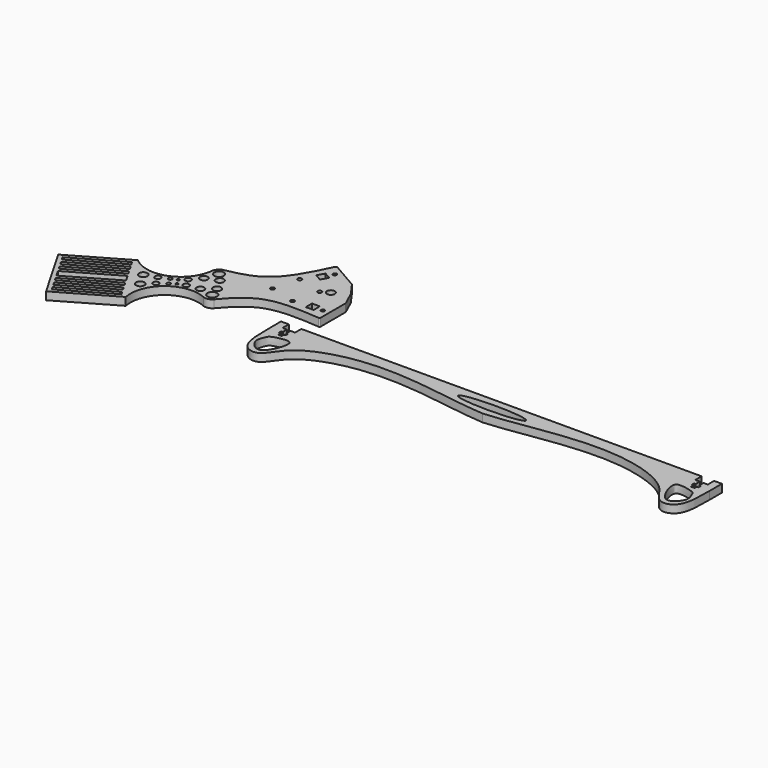
from build123d import *

# Parameters (mm, degrees)
F1_DEPTH = 6.35
F0_R     = 3.4021827074
F0_R_2   = 2.3423715425
F0_R_3   = 1.5214975609
F0_R_4   = 1.0136747058
F0_R_5   = 2.3953863404
F0_R_6   = 3.0786855976
F0_R_7   = 3.8649972017
F0_R_8   = 3.2475246744
F0_R_9   = 1.651
F0_R_10  = 1.4605
F0_R_11  = 3.175
F2_DEPTH = 6.35


with BuildPart() as f1:
    # F0 (on Top) → F1 (new body)
    with BuildSketch(Plane.XY):
        with BuildLine():
            Line((-138.4495145308, -134.0657515029), (-144.7573414492, -134.0763693376))
            Line((-144.7573414492, -134.0763693376), (-144.7047894672, -146.6308059072))
            add(Edge.make_bspline(
                [(-144.7047894672, -146.6308059072), (-144.7133234272, -157.3391666431), (-144.7274245924, -175.033222186), (-126.4599913967, -179.9298873826), (-117.9106783361, -155.3956384096), (-59.8013257889, -138.1998063164), (8.0821956242, -150.743197909), (26.3685484192, -152.2679152242), (33.0744734994, -152.8270557045)],
                knots=[0, 0, 0, 0, 0.1534714895, 0.2535899869, 0.3857332753, 0.6100992658, 0.8570165882, 1, 1, 1, 1], degree=3))
            add(Edge.make_bspline(
                [(210.8318690394, -146.0323383923), (210.8764531739, -156.7406097157), (210.9501221669, -174.4345175169), (192.699277354, -179.3926531767), (184.0674169857, -154.8873249181), (125.900503121, -137.8872182628), (58.0595943375, -150.6590719859), (39.7784782043, -152.2453425663), (33.0744734994, -152.8270557045)],
                knots=[0, 0, 0, 0, 0.1534714895, 0.2535899869, 0.3857332753, 0.6100992658, 0.8570165882, 1, 1, 1, 1], degree=3))
            Line((210.8318690394, -146.0323383923), (210.8421555957, -133.477796048))
            Line((210.8421555957, -133.477796048), (204.5343286773, -133.4884138828))
            Line((204.5343286773, -133.4884138828), (204.5557062918, -139.8383868946))
            Line((204.5557062918, -139.8383868946), (200.9958583282, -139.8463149217))
            Line((200.9958583282, -139.8463149217), (201.021371596, -143.9988273264))
            Line((201.021371596, -143.9988273264), (202.2913476258, -143.9910245228))
            Line((202.2913476258, -143.9910245228), (202.3069532329, -146.5309765824))
            Line((202.3069532329, -146.5309765824), (201.0369772031, -146.538779386))
            Line((201.0369772031, -146.538779386), (201.0506321094, -148.7612374381))
            Line((201.0506321094, -148.7612374381), (198.1296872409, -148.7791838863))
            Line((198.1296872409, -148.7791838863), (198.1160323346, -146.5567258342))
            Line((198.1160323346, -146.5567258342), (196.8460563048, -146.5645286377))
            Line((196.8460563048, -146.5645286377), (196.8304506977, -144.0245765782))
            Line((196.8304506977, -144.0245765782), (198.1004267275, -144.0167737746))
            Line((198.1004267275, -144.0167737746), (198.0749134597, -139.8642613699))
            Line((198.0749134597, -139.8642613699), (194.4241348384, -139.8554411596))
            Line((194.4241348384, -139.8554411596), (194.4134460296, -133.5054501555))
            Line((194.4134460296, -133.5054501555), (33.0424070732, -133.7770826928))
            Line((33.0424070732, -133.7770826928), (-128.3286318832, -134.0487152301))
            Line((-128.3286318832, -134.0487152301), (-128.3179430744, -140.3987062342))
            Line((-128.3179430744, -140.3987062342), (-131.9686713137, -140.4198169202))
            Line((-131.9686713137, -140.4198169202), (-131.9802047998, -144.5723916849))
            Line((-131.9802047998, -144.5723916849), (-130.7102096982, -144.5759190075))
            Line((-130.7102096982, -144.5759190075), (-130.7172643434, -147.1159092107))
            Line((-130.7172643434, -147.1159092107), (-131.987259445, -147.112381888))
            Line((-131.987259445, -147.112381888), (-131.9934322596, -149.3348733158))
            Line((-131.9934322596, -149.3348733158), (-134.9144209932, -149.3267604738))
            Line((-134.9144209932, -149.3267604738), (-134.9082481786, -147.104269046))
            Line((-134.9082481786, -147.104269046), (-136.1782432802, -147.1007417234))
            Line((-136.1782432802, -147.1007417234), (-136.1711886349, -144.5607515203))
            Line((-136.1711886349, -144.5607515203), (-134.9011935334, -144.5642788429))
            Line((-134.9011935334, -144.5642788429), (-134.8896600473, -140.4117040782))
            Line((-134.8896600473, -140.4117040782), (-138.4495145279, -140.4157604992))
            Line((-138.4495145279, -140.4157604992), (-138.4495145308, -134.0657515029))
        make_face()
        with BuildLine():
            add(Edge.make_bspline(
                [(-138.9987766743, -157.2226136923), (-138.5653700599, -156.1642919735), (-137.8798136028, -154.1458023049), (-127.6774338097, -151.6177237836), (-118.594617043, -152.3335293344), (-127.9116007274, -176.2526518644), (-137.9064111948, -170.7282479651), (-141.8547963631, -163.6501985609), (-139.6357667278, -158.7780592854), (-138.9987766743, -157.2226136923)],
                knots=[0, 0, 0, 0, 0.0864656622, 0.2474595831, 0.3699991031, 0.5914450749, 0.732896097, 0.8729189519, 1, 1, 1, 1], degree=3))
        make_face(mode=Mode.SUBTRACT)
        with BuildLine():
            add(Edge.make_bspline(
                [(205.1615464231, -156.6432957279), (204.7245793727, -155.5864390912), (204.0322314558, -153.5702688205), (193.8213985774, -151.0765514385), (184.7410430761, -151.8229306821), (194.1384988644, -175.7105515826), (204.1146545156, -170.1525309685), (208.0391887077, -163.0612292417), (205.803769351, -158.1965880483), (205.1615464231, -156.6432957279)],
                knots=[0, 0, 0, 0, 0.0864656622, 0.2474595831, 0.3699991031, 0.5914450749, 0.732896097, 0.8729189519, 1, 1, 1, 1], degree=3))
        make_face(mode=Mode.SUBTRACT)
        with BuildLine():
            add(Edge.make_bspline(
                [(33.0584402863, -147.0766216516), (80.5262285816, -147.0766216516), (56.792334434, -141.4147929721), (33.0584402863, -135.7529642926), (9.3245461387, -141.4147929721), (-14.4093480089, -147.0766216516), (33.0584402863, -147.0766216516)],
                knots=[4.7123889804, 4.7123889804, 4.7123889804, 6.8067840828, 6.8067840828, 8.9011791852, 8.9011791852, 10.9955742876, 10.9955742876, 10.9955742876], degree=2, weights=[1, 0.5, 1, 0.5, 1, 0.5, 1]))
        make_face(mode=Mode.SUBTRACT)
    extrude(amount=F1_DEPTH)


with BuildPart() as f2:
    # F0 (on Top) → F2 (new body)
    with BuildSketch(Plane.XY):
        with BuildLine():
            Line((-267.5036126241, -125.117851582), (-311.4977031363, -150.517851582))
            Line((-311.4977031363, -150.517851582), (-298.7977031363, -172.5148968381))
            Line((-298.7977031363, -172.5148968381), (-286.0977031364, -194.5119420942))
            Line((-286.0977031364, -194.5119420942), (-242.1036126241, -169.1119420943))
            ThreePointArc((-242.1036126241, -169.1119420942), (-232.2862131157, -142.224723721), (-203.9046190165, -138.5113746479))
            ThreePointArc((-203.9046190165, -138.5113746479), (-199.9258695485, -138.890725163), (-196.508603138, -136.8178902872))
            add(Edge.make_bspline(
                [(-196.508603138, -136.8178902872), (-189.891545304, -129.0474837618), (-173.8337589078, -112.2716593016), (-145.581214835, -114.1694170471), (-129.4876984968, -115.3548674058)],
                knots=[0.0669113918, 0.0669113918, 0.0669113918, 0.0669113918, 0.4668257583, 0.9906420355, 0.9906420355, 0.9906420355, 0.9906420355], degree=3))
            ThreePointArc((-129.4876984968, -115.3548674058), (-128.8063401905, -115.1601336713), (-128.4129061342, -114.5707441463))
            Line((-128.4129060967, -114.5707442098), (-128.404174042, -89.1707457108))
            Line((-128.404174042, -89.1707457108), (-133.8041937755, -77.255849794))
            Line((-133.8041937755, -77.255849794), (-141.4227864561, -66.6218475655))
            Line((-141.4227864561, -66.6218475655), (-163.4241964397, -53.9294104972))
            ThreePointArc((-163.4241964397, -53.9294104972), (-164.1313397385, -53.975439652), (-164.6406632246, -54.4681463746))
            add(Edge.make_bspline(
                [(-216.7386386251, -101.7784409847), (-206.7007402593, -99.9331040649), (-184.1435568955, -94.4145653439), (-171.6607912755, -68.9982655549), (-164.6406632246, -54.4681463746)],
                knots=[0.0669113918, 0.0669113918, 0.0669113918, 0.0669113918, 0.4668257583, 0.990642036, 0.990642036, 0.990642036, 0.990642036], degree=3))
            ThreePointArc((-216.7386386251, -101.7784409847), (-220.2423994906, -103.7014630697), (-221.9032470415, -107.3368364419))
            ThreePointArc((-221.9032470415, -107.3368364419), (-239.3098987216, -130.0593433952), (-267.5036126241, -125.117851582))
        make_face()
        Polygon((-248.0282432812, -165.2001807802), (-246.4407432812, -167.9498114373), (-284.9355724794, -190.1748114373), (-286.5230724794, -187.4251807803), align=None, mode=Mode.SUBTRACT)
        Polygon((-288.1105724794, -184.6755501232), (-289.6980724794, -181.9259194662), (-251.2032432812, -159.7009194662), (-249.6157432812, -162.4505501232), align=None, mode=Mode.SUBTRACT)
        Polygon((-292.8730724794, -176.4266581522), (-254.3782432812, -154.2016581522), (-252.7907432812, -156.9512888092), (-291.2855724794, -179.1762888092), align=None, mode=Mode.SUBTRACT)
        Polygon((-297.6355724794, -168.1777661812), (-259.1407432812, -145.9527661811), (-257.5532432812, -148.7023968382), (-255.9657432812, -151.4520274952), (-294.4605724794, -173.6770274952), (-296.0480724794, -170.9273968382), align=None, mode=Mode.SUBTRACT)
        Polygon((-262.3157432812, -140.4535048671), (-260.7282432812, -143.2031355241), (-299.2230724794, -165.4281355241), (-300.8105724794, -162.6785048671), align=None, mode=Mode.SUBTRACT)
        Polygon((-265.4907432812, -134.9542435531), (-263.9032432812, -137.7038742101), (-302.3980724795, -159.9288742101), (-303.9855724795, -157.1792435531), align=None, mode=Mode.SUBTRACT)
        Polygon((-268.6657432812, -129.4549822391), (-267.0782432812, -132.2046128961), (-305.5730724795, -154.4296128961), (-307.1605724795, -151.6799822391), align=None, mode=Mode.SUBTRACT)
        with Locations((-246.1112880885, -149.4156138254)):
            Circle(F0_R, mode=Mode.SUBTRACT)
        with Locations((-238.8761528372, -142.6929414409)):
            Circle(F0_R_2, mode=Mode.SUBTRACT)
        with Locations((-252.4499297142, -138.4367644787)):
            Circle(F0_R, mode=Mode.SUBTRACT)
        with Locations((-232.2585590114, -138.12909746)):
            Circle(F0_R_3, mode=Mode.SUBTRACT)
        with Locations((-243.0103570223, -135.5322897434)):
            Circle(F0_R_2, mode=Mode.SUBTRACT)
        with Locations((-228.0551815253, -134.896362038)):
            Circle(F0_R_4, mode=Mode.SUBTRACT)
        with Locations((-235.749155283, -132.0832073689)):
            Circle(F0_R_3, mode=Mode.SUBTRACT)
        with Locations((-230.8478355408, -130.0593433952)):
            Circle(F0_R_4, mode=Mode.SUBTRACT)
        with Locations((-222.2308864274, -132.8835583567)):
            Circle(F0_R_5, mode=Mode.SUBTRACT)
        with Locations((-226.192548871, -126.0217577219)):
            Circle(F0_R_5, mode=Mode.SUBTRACT)
        with Locations((-212.2787797838, -131.0133331283)):
            Circle(F0_R_6, mode=Mode.SUBTRACT)
        with Locations((-201.3431663221, -132.7009133844)):
            Circle(F0_R_7, mode=Mode.SUBTRACT)
        with Locations((-204.0750272589, -124.4159473128)):
            Circle(F0_R_8, mode=Mode.SUBTRACT)
        with Locations((-219.5968329906, -118.3380931616)):
            Circle(F0_R_6, mode=Mode.SUBTRACT)
        with Locations((-215.5905136325, -108.0237839697)):
            Circle(F0_R_7, mode=Mode.SUBTRACT)
        with Locations((-209.7814530134, -114.5321279764)):
            Circle(F0_R_8, mode=Mode.SUBTRACT)
        with Locations((-156.5085535921, -107.6978897077)):
            Circle(F0_R_9, mode=Mode.SUBTRACT)
        with Locations((-177.0145073384, -102.2033359614)):
            Circle(F0_R_9, mode=Mode.SUBTRACT)
        Polygon((-144.7995185789, -109.020163878), (-144.7973355651, -102.67016399), (-138.4473359404, -102.6723470036), (-138.449514529, -109.009475081), align=None, mode=Mode.SUBTRACT)
        with Locations((-133.4291656805, -105.8426365719)):
            Circle(F0_R_10, mode=Mode.SUBTRACT)
        with Locations((-151.0139998457, -87.1919359614)):
            Circle(F0_R_9, mode=Mode.SUBTRACT)
        with Locations((-171.5199535921, -81.697382215)):
            Circle(F0_R_9, mode=Mode.SUBTRACT)
        with Locations((-144.8108330835, -83.6105359613)):
            Circle(F0_R_11, mode=Mode.SUBTRACT)
        Polygon((-158.1370971167, -68.5686802574), (-161.3102063838, -74.0690327533), (-166.8105591077, -70.8959233546), (-163.6374498407, -65.3955708587), align=None, mode=Mode.SUBTRACT)
        with Locations((-158.3735632902, -62.6376725477)):
            Circle(F0_R_10, mode=Mode.SUBTRACT)
    extrude(amount=F2_DEPTH)


solid = Compound([f1.part, f2.part])
